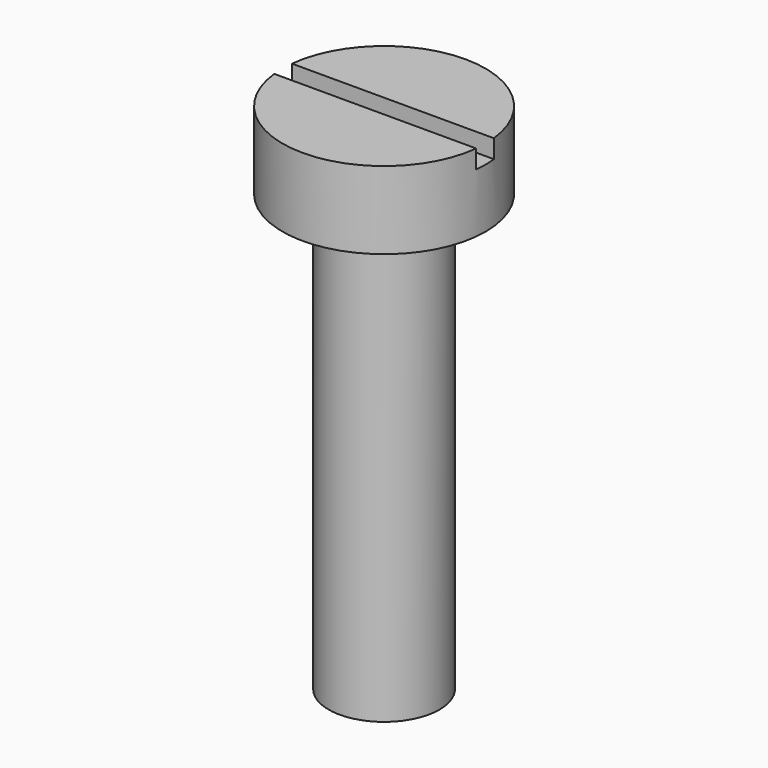
from build123d import *

# Parameters (mm, degrees)
SKETCH_W     = 5.867174
SKETCH_H     = 0.6
POCKET_DEPTH = 0.5


with BuildPart() as part:
    # Sketch001 → Revolution (revolve)
    with BuildSketch(Plane.XZ):
        Polygon((0, 0), (1.5, 0), (1.5, 11.8), (2.75, 11.8), (2.75, 13.9), (0, 13.9), align=None)
    revolve(axis=Axis((0, 0, 0), (0, 0, 1)))

    # Sketch → Pocket (cut)
    with BuildSketch(Plane(origin=(0, 0, 13.9), x_dir=(-1, 0, 0), z_dir=(0, 0, 1))):
        Rectangle(SKETCH_W, SKETCH_H)
    extrude(amount=-POCKET_DEPTH, mode=Mode.SUBTRACT)


solid = part.part
